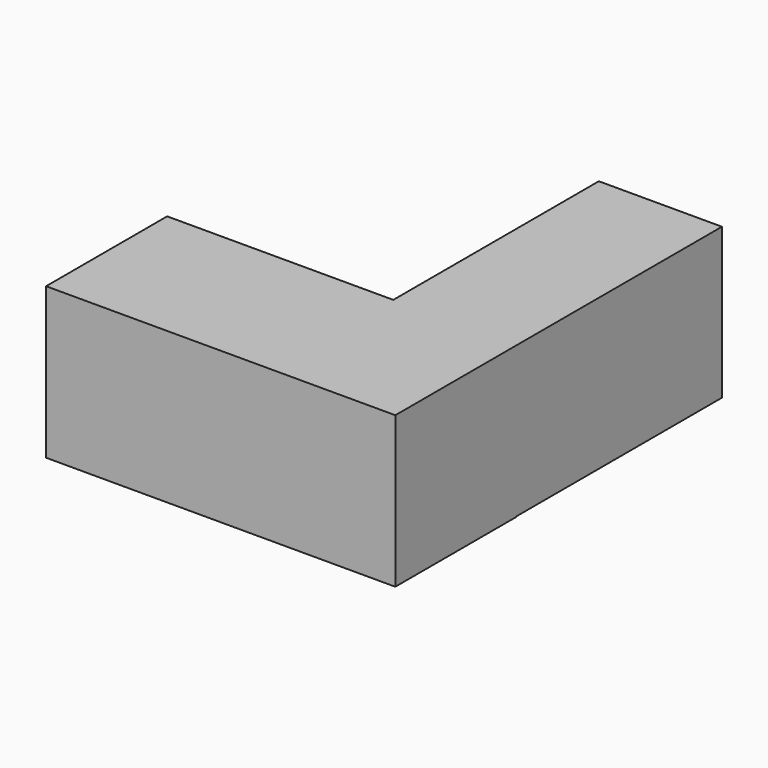
from build123d import *

# Parameters (mm, degrees)
F0_W     = 36.510132
F0_H     = 44.657022
F1_DEPTH = 76.2
F2_W     = 44.885072
F2_H     = 44.793312
F3_DEPTH = 103.585832


with BuildPart() as f1:
    # F0 (on Front) → F1 (new body)
    with BuildSketch(Plane.XZ):
        with Locations((-18.255066, -22.328511)):
            Rectangle(F0_W, F0_H)
    extrude(amount=-F1_DEPTH)

    # F2 (on Right) → F3 (join)
    with BuildSketch(Plane.YZ):
        with Locations((-22.442536, -22.396656)):
            Rectangle(F2_W, F2_H)
    extrude(amount=-F3_DEPTH)


solid = f1.part
